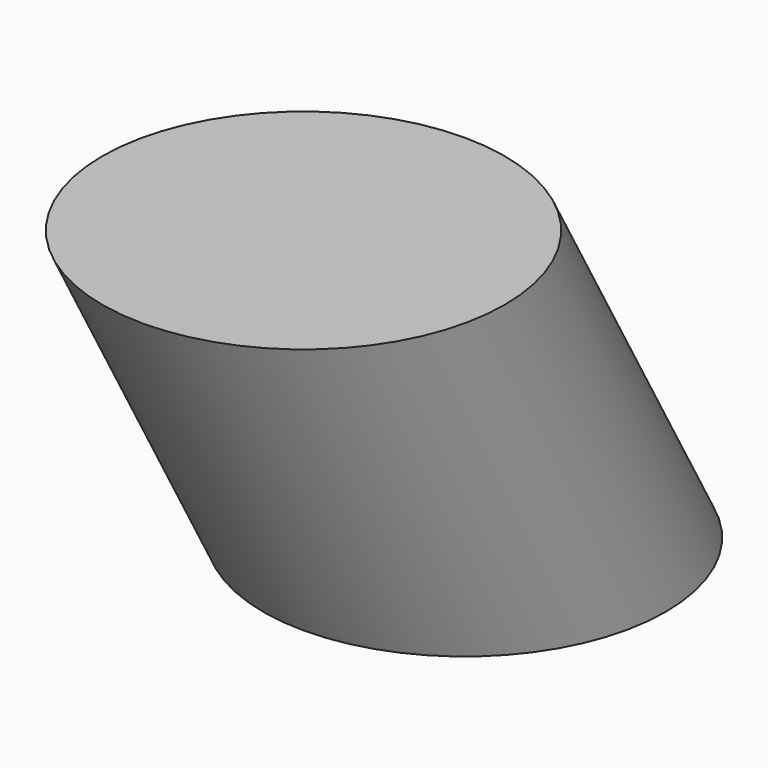
from build123d import *

# Parameters (mm, degrees)
F0_R = 40


with BuildPart() as f4:
    # F4: sweep along a path in F3
    with BuildLine(Plane.YZ) as f4_path:
        Line((0, 0), (-40, 70))
    # F0 (on Top) → F4 (sweep)
    with BuildSketch(Plane.XY):
        Circle(F0_R)
    sweep(path=f4_path.line)


solid = f4.part
